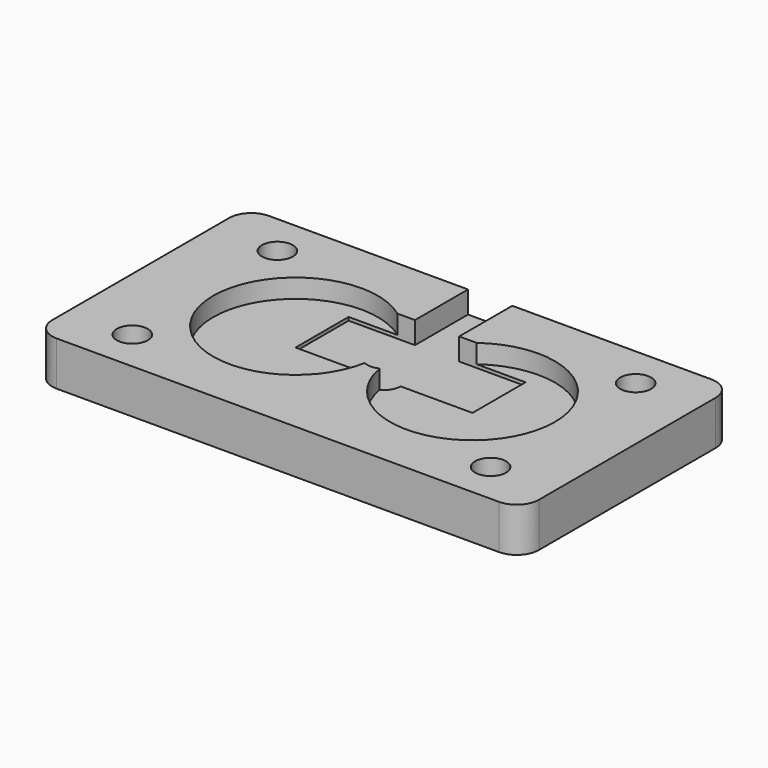
from build123d import *

# Parameters (mm, degrees)
SKETCH051_W         = 44
SKETCH051_H         = 24
PAD014_DEPTH        = 4
SKETCH052_R         = 7.45
POCKET015_DEPTH     = 1.7
SKETCH053_R         = 1.5
SKETCH053_W         = 16
SKETCH053_H         = 6
SKETCH053_W_2       = 4
POCKET016_DEPTH     = 2
HOLE022_D           = 2.8
HOLE022_DEPTH       = 25
HOLE022_CBORE_D     = 6
HOLE022_CBORE_DEPTH = 2
FILLET020_R         = 2


with BuildPart() as part:
    # Sketch051 → Pad014 (new body)
    with BuildSketch(Plane.XY):
        Rectangle(SKETCH051_W, SKETCH051_H)
    extrude(amount=PAD014_DEPTH)

    # Sketch052 (on Face6 of Pad014) → Pocket015 (cut)
    with BuildSketch(Plane.XY.offset(4)):
        with Locations((8, 0)):
            Circle(SKETCH052_R)
    pocket015 = extrude(amount=-POCKET015_DEPTH, mode=Mode.SUBTRACT)

    # Mirrored025: Pocket015 across Sketch052 V_Axis
    add(pocket015.mirror(Plane(origin=(0, 0, 4), x_dir=(0, 0, 1), z_dir=(1, 0, 0))), mode=Mode.SUBTRACT)

    # Sketch053 (on Face5 of Mirrored025) → Pocket016 (cut)
    with BuildSketch(Plane.XY.offset(4)):
        Circle(SKETCH053_R)
        with Locations((0, 3)):
            Rectangle(SKETCH053_W, SKETCH053_H)
        with Locations((0, 9)):
            Rectangle(SKETCH053_W_2, SKETCH053_H)
    extrude(amount=-POCKET016_DEPTH, mode=Mode.SUBTRACT)

    # Hole022
    with Locations(Plane(origin=(0, 0, 0), x_dir=(1, 0, 0), z_dir=(0, 0, -1))):
        with Locations((16.2, 8.2), (16.2, -8.2)):
            hole022 = CounterBoreHole(HOLE022_D / 2, HOLE022_CBORE_D / 2, HOLE022_CBORE_DEPTH, depth=HOLE022_DEPTH)

    # Mirrored026: Hole022 across Sketch054 V_Axis
    add(hole022.mirror(Plane(origin=(0, 0, 0), x_dir=(0, 0, -1), z_dir=(1, 0, 0))), mode=Mode.SUBTRACT)

    # Fillet020
    fillet020_edges = [part.edges().sort_by_distance(p)[0] for p in [
        (-22, 12, 2),
        (-22, -12, 2),
        (22, -12, 2),
        (22, 12, 2),
    ]]
    fillet(fillet020_edges, radius=FILLET020_R)


solid = part.part
